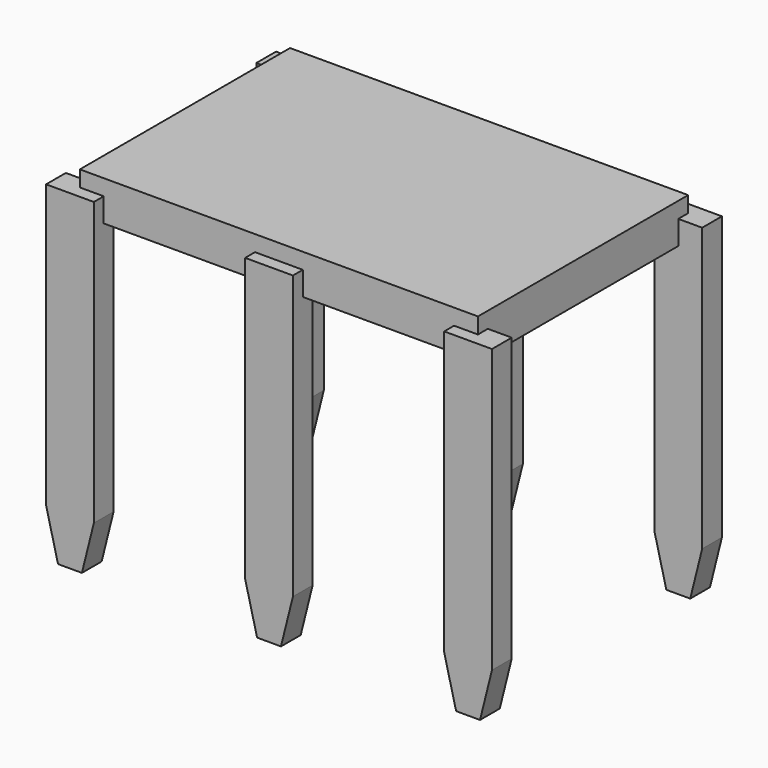
from build123d import *

# Parameters (mm, degrees)
SKETCH017_W                  = 5
SKETCH017_H                  = 3.3
PAD009_DEPTH                 = 0.5
PAD010_DEPTH                 = 0.155
PAD010_LINEARPATTERN_2_DEPTH = 0.155
PAD010_LINEARPATTERN_3_DEPTH = 0.155
LINEARPATTERN001_COUNT       = 2
LINEARPATTERN001_PITCH       = 3.3


with BuildPart() as part:
    # Sketch017 (on DatumPlane) → Pad009 (new body)
    with BuildSketch(Plane.XY.offset(0.85)):
        with Locations((2.5, -1.65)):
            Rectangle(SKETCH017_W, SKETCH017_H)
    extrude(amount=PAD009_DEPTH)

    # Sketch018 (on Face1 of Pad009) → Pad010 (join, symmetric)
    with BuildSketch(Plane(origin=(0, 0, 0.85), x_dir=(-1, 0, 0), z_dir=(0, 1, 0))):
        Polygon((-0.3, 0.3), (-0.3, -3.25), (-0.15, -3.85), (0.15, -3.85), (0.3, -3.25), (0.3, 0.3), align=None)
    pad010 = extrude(amount=PAD010_DEPTH, both=True)

    # Sketch018 LinearPattern 2 → Pad010 LinearPattern 2 (add, symmetric)
    with BuildSketch(Plane(origin=(2.5, 0, 0.85), x_dir=(-1, 0, 0), z_dir=(0, 1, 0))):
        Polygon((-0.3, 0.3), (-0.3, -3.25), (-0.15, -3.85), (0.15, -3.85), (0.3, -3.25), (0.3, 0.3), align=None)
    pad010_linearpattern_2 = extrude(amount=PAD010_LINEARPATTERN_2_DEPTH, both=True)

    # Sketch018 LinearPattern 3 → Pad010 LinearPattern 3 (add, symmetric)
    with BuildSketch(Plane(origin=(5, 0, 0.85), x_dir=(-1, 0, 0), z_dir=(0, 1, 0))):
        Polygon((-0.3, 0.3), (-0.3, -3.25), (-0.15, -3.85), (0.15, -3.85), (0.3, -3.25), (0.3, 0.3), align=None)
    pad010_linearpattern_3 = extrude(amount=PAD010_LINEARPATTERN_3_DEPTH, both=True)

    # LinearPattern001: Pad010, Pad010 LinearPattern 2, Pad010 LinearPattern 3 ×2
    with Locations(*[(0, -i * LINEARPATTERN001_PITCH, 0) for i in range(1, LINEARPATTERN001_COUNT)]):
        add(pad010)
        add(pad010_linearpattern_2)
        add(pad010_linearpattern_3)


solid = part.part
